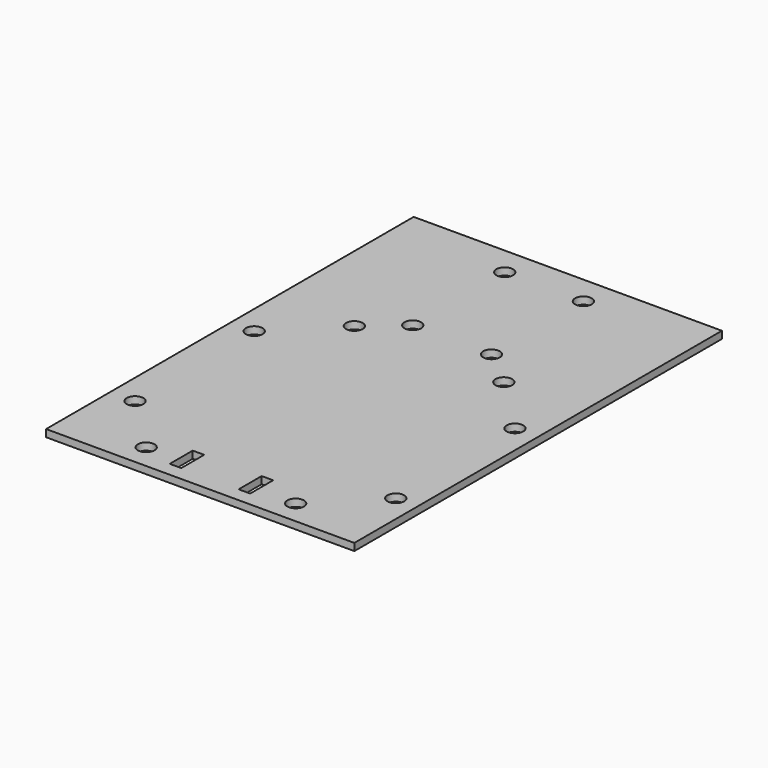
from build123d import *

# Parameters (mm, degrees)
F0_W     = 136.325229
F0_H     = 203.2
F0_R     = 3.683
F0_W_2   = 5.08
F0_H_2   = 12.7
F1_DEPTH = 3.2004


with BuildPart() as f1:
    # F0 (on Top) → F1 (new body)
    with BuildSketch(Plane.XY):
        with Locations((0.350571, 25.916265)):
            Rectangle(F0_W, F0_H)
        with Locations((-56.893115, -40.158905)):
            Circle(F0_R, mode=Mode.SUBTRACT)
        with Locations((-32.287213, -64.764806)):
            Circle(F0_R, mode=Mode.SUBTRACT)
        with Locations((-15.661117, -62.983735)):
            Rectangle(F0_W_2, F0_H_2, mode=Mode.SUBTRACT)
        with Locations((14.818883, -62.983735)):
            Rectangle(F0_W_2, F0_H_2, mode=Mode.SUBTRACT)
        with Locations((34.255284, -65.297921)):
            Circle(F0_R, mode=Mode.SUBTRACT)
        with Locations((58.861186, -40.692019)):
            Circle(F0_R, mode=Mode.SUBTRACT)
        with Locations((58.328071, 25.850478)):
            Circle(F0_R, mode=Mode.SUBTRACT)
        with Locations((-57.426229, 26.383592)):
            Circle(F0_R, mode=Mode.SUBTRACT)
        with Locations((-32.820327, 50.989494)):
            Circle(F0_R, mode=Mode.SUBTRACT)
        with Locations((-17.399, 64.016265)):
            Circle(F0_R, mode=Mode.SUBTRACT)
        with Locations((-17.399, 114.816265)):
            Circle(F0_R, mode=Mode.SUBTRACT)
        with Locations((33.72217, 50.456379)):
            Circle(F0_R, mode=Mode.SUBTRACT)
        with Locations((17.399, 64.016265)):
            Circle(F0_R, mode=Mode.SUBTRACT)
        with Locations((17.399, 114.816265)):
            Circle(F0_R, mode=Mode.SUBTRACT)
    extrude(amount=F1_DEPTH)


solid = f1.part
